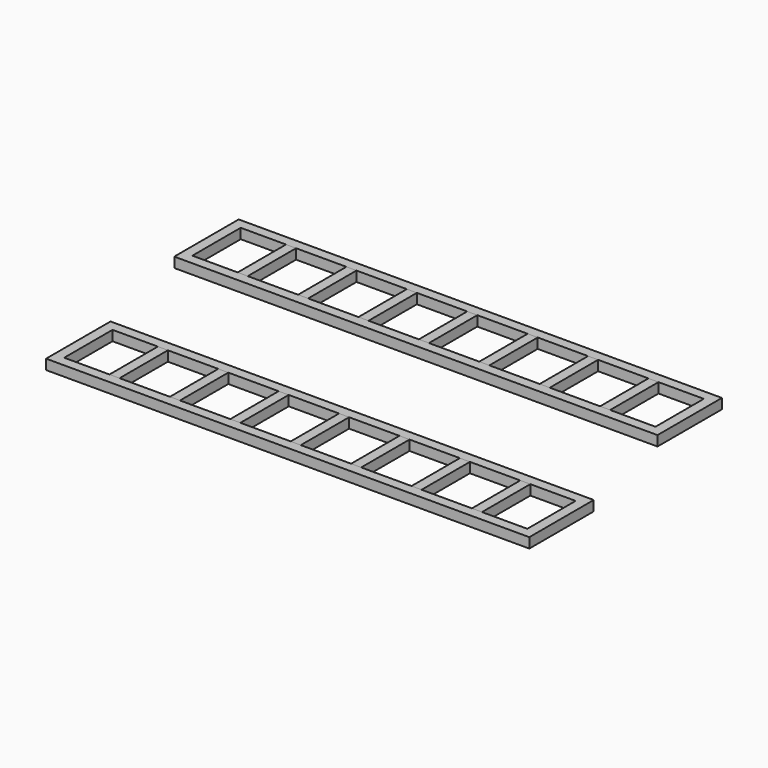
from build123d import *

# Parameters (mm, degrees)
F0_W     = 3.175
F0_H     = 3.175
F0_W_2   = 14.2875
F0_W_3   = 1.5875
F0_W_4   = 15.875
F0_H_2   = 19.05
F1_DEPTH = 3.175
F2_DEPTH = 3.175


with BuildPart() as f1:
    # F0 (on Top) → F1 (new body)
    with BuildSketch(Plane.XY):
        with Locations((-72.4323269486, 6.6236498341)):
            Rectangle(F0_W, F0_H)
        with Locations((76.7926730514, 6.6236498341)):
            Rectangle(F0_W, F0_H)
        with Locations((-72.4323269486, -15.6013501659)):
            Rectangle(F0_W, F0_H)
        with Locations((76.7926730514, -15.6013501659)):
            Rectangle(F0_W, F0_H)
        with Locations((-63.7010769486, 6.6236498341)):
            Rectangle(F0_W_2, F0_H)
        with Locations((-55.7635769486, 6.6236498341)):
            Rectangle(F0_W_3, F0_H)
        with Locations((-54.1760769486, 6.6236498341)):
            Rectangle(F0_W_3, F0_H)
        with Locations((-45.4448269486, 6.6236498341)):
            Rectangle(F0_W_4, F0_H)
        with Locations((-36.7135769486, 6.6236498341)):
            Rectangle(F0_W_3, F0_H)
        with Locations((-35.1260769486, 6.6236498341)):
            Rectangle(F0_W_3, F0_H)
        with Locations((-26.3948269486, 6.6236498341)):
            Rectangle(F0_W_4, F0_H)
        with Locations((-17.6635769486, 6.6236498341)):
            Rectangle(F0_W_3, F0_H)
        with Locations((-16.0760769486, 6.6236498341)):
            Rectangle(F0_W_3, F0_H)
        with Locations((-7.3448269486, 6.6236498341)):
            Rectangle(F0_W_4, F0_H)
        with Locations((1.3864230514, 6.6236498341)):
            Rectangle(F0_W_3, F0_H)
        with Locations((2.9739230514, 6.6236498341)):
            Rectangle(F0_W_3, F0_H)
        with Locations((11.7051730514, 6.6236498341)):
            Rectangle(F0_W_4, F0_H)
        with Locations((20.4364230514, 6.6236498341)):
            Rectangle(F0_W_3, F0_H)
        with Locations((22.0239230514, 6.6236498341)):
            Rectangle(F0_W_3, F0_H)
        with Locations((30.7551730514, 6.6236498341)):
            Rectangle(F0_W_4, F0_H)
        with Locations((39.4864230514, 6.6236498341)):
            Rectangle(F0_W_3, F0_H)
        with Locations((41.0739230514, 6.6236498341)):
            Rectangle(F0_W_3, F0_H)
        with Locations((49.8051730514, 6.6236498341)):
            Rectangle(F0_W_4, F0_H)
        with Locations((58.5364230514, 6.6236498341)):
            Rectangle(F0_W_3, F0_H)
        with Locations((60.1239230514, 6.6236498341)):
            Rectangle(F0_W_3, F0_H)
        with Locations((68.0614230514, 6.6236498341)):
            Rectangle(F0_W_2, F0_H)
        with Locations((-63.7010769486, -15.6013501659)):
            Rectangle(F0_W_2, F0_H)
        with Locations((-55.7635769486, -15.6013501659)):
            Rectangle(F0_W_3, F0_H)
        with Locations((-54.1760769486, -15.6013501659)):
            Rectangle(F0_W_3, F0_H)
        with Locations((-45.4448269486, -15.6013501659)):
            Rectangle(F0_W_4, F0_H)
        with Locations((-36.7135769486, -15.6013501659)):
            Rectangle(F0_W_3, F0_H)
        with Locations((-35.1260769486, -15.6013501659)):
            Rectangle(F0_W_3, F0_H)
        with Locations((-26.3948269486, -15.6013501659)):
            Rectangle(F0_W_4, F0_H)
        with Locations((-17.6635769486, -15.6013501659)):
            Rectangle(F0_W_3, F0_H)
        with Locations((-16.0760769486, -15.6013501659)):
            Rectangle(F0_W_3, F0_H)
        with Locations((-7.3448269486, -15.6013501659)):
            Rectangle(F0_W_4, F0_H)
        with Locations((1.3864230514, -15.6013501659)):
            Rectangle(F0_W_3, F0_H)
        with Locations((2.9739230514, -15.6013501659)):
            Rectangle(F0_W_3, F0_H)
        with Locations((11.7051730514, -15.6013501659)):
            Rectangle(F0_W_4, F0_H)
        with Locations((20.4364230514, -15.6013501659)):
            Rectangle(F0_W_3, F0_H)
        with Locations((22.0239230514, -15.6013501659)):
            Rectangle(F0_W_3, F0_H)
        with Locations((30.7551730514, -15.6013501659)):
            Rectangle(F0_W_4, F0_H)
        with Locations((39.4864230514, -15.6013501659)):
            Rectangle(F0_W_3, F0_H)
        with Locations((41.0739230514, -15.6013501659)):
            Rectangle(F0_W_3, F0_H)
        with Locations((49.8051730514, -15.6013501659)):
            Rectangle(F0_W_4, F0_H)
        with Locations((58.5364230514, -15.6013501659)):
            Rectangle(F0_W_3, F0_H)
        with Locations((60.1239230514, -15.6013501659)):
            Rectangle(F0_W_3, F0_H)
        with Locations((68.0614230514, -15.6013501659)):
            Rectangle(F0_W_2, F0_H)
        with Locations((-72.4323269486, -4.4888501659)):
            Rectangle(F0_W, F0_H_2)
        with Locations((76.7926730514, -4.4888501659)):
            Rectangle(F0_W, F0_H_2)
    extrude(amount=F1_DEPTH)


with BuildPart() as f1b:
    # F0 (on Top) → F1, piece 2 (new body)
    with BuildSketch(Plane.XY):
        with Locations((67.4402641416, 68.8409235835)):
            Rectangle(F0_W, F0_H)
        with Locations((-81.7847358584, 46.6159235835)):
            Rectangle(F0_W, F0_H)
        with Locations((67.4402641416, 46.6159235835)):
            Rectangle(F0_W, F0_H)
        with Locations((-73.0534858584, 68.8409235835)):
            Rectangle(F0_W_2, F0_H)
        with Locations((-65.1159858584, 68.8409235835)):
            Rectangle(F0_W_3, F0_H)
        with Locations((-63.5284858584, 68.8409235835)):
            Rectangle(F0_W_3, F0_H)
        with Locations((-54.7972358584, 68.8409235835)):
            Rectangle(F0_W_4, F0_H)
        with Locations((-46.0659858584, 68.8409235835)):
            Rectangle(F0_W_3, F0_H)
        with Locations((-44.4784858584, 68.8409235835)):
            Rectangle(F0_W_3, F0_H)
        with Locations((-35.7472358584, 68.8409235835)):
            Rectangle(F0_W_4, F0_H)
        with Locations((-27.0159858584, 68.8409235835)):
            Rectangle(F0_W_3, F0_H)
        with Locations((-25.4284858584, 68.8409235835)):
            Rectangle(F0_W_3, F0_H)
        with Locations((-16.6972358584, 68.8409235835)):
            Rectangle(F0_W_4, F0_H)
        with Locations((-7.9659858584, 68.8409235835)):
            Rectangle(F0_W_3, F0_H)
        with Locations((-6.3784858584, 68.8409235835)):
            Rectangle(F0_W_3, F0_H)
        with Locations((2.3527641416, 68.8409235835)):
            Rectangle(F0_W_4, F0_H)
        with Locations((11.0840141416, 68.8409235835)):
            Rectangle(F0_W_3, F0_H)
        with Locations((12.6715141416, 68.8409235835)):
            Rectangle(F0_W_3, F0_H)
        with Locations((21.4027641416, 68.8409235835)):
            Rectangle(F0_W_4, F0_H)
        with Locations((30.1340141416, 68.8409235835)):
            Rectangle(F0_W_3, F0_H)
        with Locations((31.7215141416, 68.8409235835)):
            Rectangle(F0_W_3, F0_H)
        with Locations((40.4527641416, 68.8409235835)):
            Rectangle(F0_W_4, F0_H)
        with Locations((49.1840141416, 68.8409235835)):
            Rectangle(F0_W_3, F0_H)
        with Locations((50.7715141416, 68.8409235835)):
            Rectangle(F0_W_3, F0_H)
        with Locations((58.7090141416, 68.8409235835)):
            Rectangle(F0_W_2, F0_H)
        with Locations((-73.0534858584, 46.6159235835)):
            Rectangle(F0_W_2, F0_H)
        with Locations((-65.1159858584, 46.6159235835)):
            Rectangle(F0_W_3, F0_H)
        with Locations((-63.5284858584, 46.6159235835)):
            Rectangle(F0_W_3, F0_H)
        with Locations((-54.7972358584, 46.6159235835)):
            Rectangle(F0_W_4, F0_H)
        with Locations((-46.0659858584, 46.6159235835)):
            Rectangle(F0_W_3, F0_H)
        with Locations((-44.4784858584, 46.6159235835)):
            Rectangle(F0_W_3, F0_H)
        with Locations((-35.7472358584, 46.6159235835)):
            Rectangle(F0_W_4, F0_H)
        with Locations((-27.0159858584, 46.6159235835)):
            Rectangle(F0_W_3, F0_H)
        with Locations((-25.4284858584, 46.6159235835)):
            Rectangle(F0_W_3, F0_H)
        with Locations((-16.6972358584, 46.6159235835)):
            Rectangle(F0_W_4, F0_H)
        with Locations((-7.9659858584, 46.6159235835)):
            Rectangle(F0_W_3, F0_H)
        with Locations((-6.3784858584, 46.6159235835)):
            Rectangle(F0_W_3, F0_H)
        with Locations((2.3527641416, 46.6159235835)):
            Rectangle(F0_W_4, F0_H)
        with Locations((11.0840141416, 46.6159235835)):
            Rectangle(F0_W_3, F0_H)
        with Locations((12.6715141416, 46.6159235835)):
            Rectangle(F0_W_3, F0_H)
        with Locations((21.4027641416, 46.6159235835)):
            Rectangle(F0_W_4, F0_H)
        with Locations((30.1340141416, 46.6159235835)):
            Rectangle(F0_W_3, F0_H)
        with Locations((31.7215141416, 46.6159235835)):
            Rectangle(F0_W_3, F0_H)
        with Locations((40.4527641416, 46.6159235835)):
            Rectangle(F0_W_4, F0_H)
        with Locations((49.1840141416, 46.6159235835)):
            Rectangle(F0_W_3, F0_H)
        with Locations((50.7715141416, 46.6159235835)):
            Rectangle(F0_W_3, F0_H)
        with Locations((58.7090141416, 46.6159235835)):
            Rectangle(F0_W_2, F0_H)
        with Locations((-81.7847358584, 57.7284235835)):
            Rectangle(F0_W, F0_H_2)
        with Locations((67.4402641416, 57.7284235835)):
            Rectangle(F0_W, F0_H_2)
        with Locations((-81.7847358584, 68.8409235835)):
            Rectangle(F0_W, F0_H)
    extrude(amount=F1_DEPTH)


with BuildPart() as f2:
    # F0 (on Top) → F2 (new body)
    with BuildSketch(Plane.XY):
        with Locations((-65.1159858584, 57.7284235835)):
            Rectangle(F0_W_3, F0_H_2)
        with Locations((-63.5284858584, 57.7284235835)):
            Rectangle(F0_W_3, F0_H_2)
    extrude(amount=F2_DEPTH)


with BuildPart() as f2b:
    # F0 (on Top) → F2, piece 2 (new body)
    with BuildSketch(Plane.XY):
        with Locations((-46.0659858584, 57.7284235835)):
            Rectangle(F0_W_3, F0_H_2)
        with Locations((-44.4784858584, 57.7284235835)):
            Rectangle(F0_W_3, F0_H_2)
    extrude(amount=F2_DEPTH)


with BuildPart() as f2c:
    # F0 (on Top) → F2, piece 3 (new body)
    with BuildSketch(Plane.XY):
        with Locations((-27.0159858584, 57.7284235835)):
            Rectangle(F0_W_3, F0_H_2)
        with Locations((-25.4284858584, 57.7284235835)):
            Rectangle(F0_W_3, F0_H_2)
    extrude(amount=F2_DEPTH)


with BuildPart() as f2d:
    # F0 (on Top) → F2, piece 4 (new body)
    with BuildSketch(Plane.XY):
        with Locations((-7.9659858584, 57.7284235835)):
            Rectangle(F0_W_3, F0_H_2)
        with Locations((-6.3784858584, 57.7284235835)):
            Rectangle(F0_W_3, F0_H_2)
    extrude(amount=F2_DEPTH)


with BuildPart() as f2e:
    # F0 (on Top) → F2, piece 5 (new body)
    with BuildSketch(Plane.XY):
        with Locations((11.0840141416, 57.7284235835)):
            Rectangle(F0_W_3, F0_H_2)
        with Locations((12.6715141416, 57.7284235835)):
            Rectangle(F0_W_3, F0_H_2)
    extrude(amount=F2_DEPTH)


with BuildPart() as f2f:
    # F0 (on Top) → F2, piece 6 (new body)
    with BuildSketch(Plane.XY):
        with Locations((30.1340141416, 57.7284235835)):
            Rectangle(F0_W_3, F0_H_2)
        with Locations((31.7215141416, 57.7284235835)):
            Rectangle(F0_W_3, F0_H_2)
    extrude(amount=F2_DEPTH)


with BuildPart() as f2g:
    # F0 (on Top) → F2, piece 7 (new body)
    with BuildSketch(Plane.XY):
        with Locations((49.1840141416, 57.7284235835)):
            Rectangle(F0_W_3, F0_H_2)
        with Locations((50.7715141416, 57.7284235835)):
            Rectangle(F0_W_3, F0_H_2)
    extrude(amount=F2_DEPTH)


with BuildPart() as f2h:
    # F0 (on Top) → F2, piece 8 (new body)
    with BuildSketch(Plane.XY):
        with Locations((-55.7635769486, -4.4888501659)):
            Rectangle(F0_W_3, F0_H_2)
        with Locations((-54.1760769486, -4.4888501659)):
            Rectangle(F0_W_3, F0_H_2)
    extrude(amount=F2_DEPTH)


with BuildPart() as f2i:
    # F0 (on Top) → F2, piece 9 (new body)
    with BuildSketch(Plane.XY):
        with Locations((-36.7135769486, -4.4888501659)):
            Rectangle(F0_W_3, F0_H_2)
        with Locations((-35.1260769486, -4.4888501659)):
            Rectangle(F0_W_3, F0_H_2)
    extrude(amount=F2_DEPTH)


with BuildPart() as f2j:
    # F0 (on Top) → F2, piece 10 (new body)
    with BuildSketch(Plane.XY):
        with Locations((-17.6635769486, -4.4888501659)):
            Rectangle(F0_W_3, F0_H_2)
        with Locations((-16.0760769486, -4.4888501659)):
            Rectangle(F0_W_3, F0_H_2)
    extrude(amount=F2_DEPTH)


with BuildPart() as f2k:
    # F0 (on Top) → F2, piece 11 (new body)
    with BuildSketch(Plane.XY):
        with Locations((1.3864230514, -4.4888501659)):
            Rectangle(F0_W_3, F0_H_2)
        with Locations((2.9739230514, -4.4888501659)):
            Rectangle(F0_W_3, F0_H_2)
    extrude(amount=F2_DEPTH)


with BuildPart() as f2l:
    # F0 (on Top) → F2, piece 12 (new body)
    with BuildSketch(Plane.XY):
        with Locations((20.4364230514, -4.4888501659)):
            Rectangle(F0_W_3, F0_H_2)
        with Locations((22.0239230514, -4.4888501659)):
            Rectangle(F0_W_3, F0_H_2)
    extrude(amount=F2_DEPTH)


with BuildPart() as f2m:
    # F0 (on Top) → F2, piece 13 (new body)
    with BuildSketch(Plane.XY):
        with Locations((39.4864230514, -4.4888501659)):
            Rectangle(F0_W_3, F0_H_2)
        with Locations((41.0739230514, -4.4888501659)):
            Rectangle(F0_W_3, F0_H_2)
    extrude(amount=F2_DEPTH)


with BuildPart() as f2n:
    # F0 (on Top) → F2, piece 14 (new body)
    with BuildSketch(Plane.XY):
        with Locations((58.5364230514, -4.4888501659)):
            Rectangle(F0_W_3, F0_H_2)
        with Locations((60.1239230514, -4.4888501659)):
            Rectangle(F0_W_3, F0_H_2)
    extrude(amount=F2_DEPTH)


solid = Compound([f1.part, f1b.part, f2.part, f2b.part, f2c.part, f2d.part, f2e.part, f2f.part, f2g.part, f2h.part, f2i.part, f2j.part, f2k.part, f2l.part, f2m.part, f2n.part])
